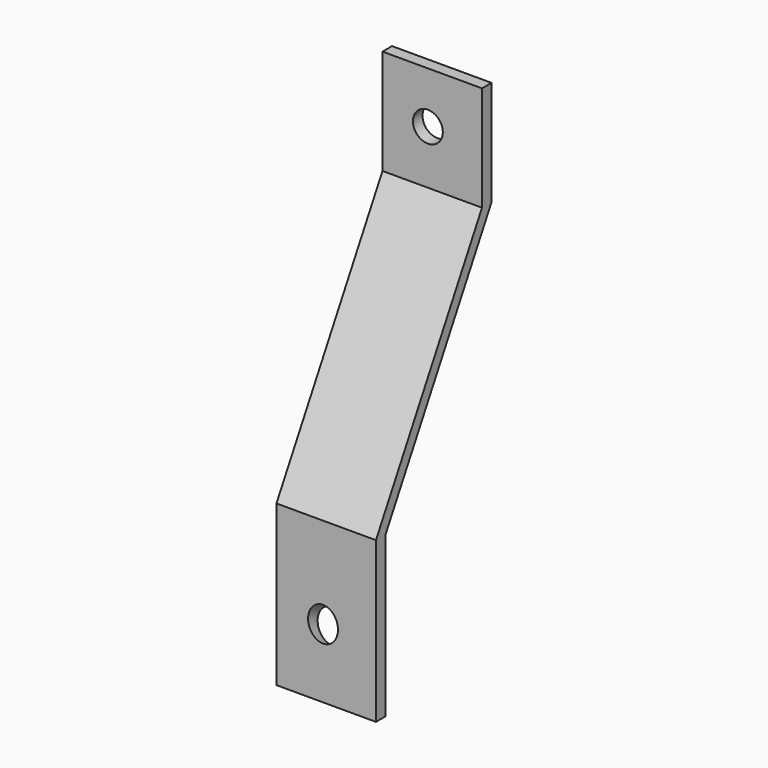
from build123d import *

# Parameters (mm, degrees)
F0_W     = 3.048003
F0_H     = 40.843204
F1_DEPTH = 25.4
F3_D     = 7.62
F5_D     = 7.62


with BuildPart() as f1:
    # F0 (on Right) → F1 (new body)
    with BuildSketch(Plane.YZ):
        Polygon((-15.24, 50.139602), (-49.072802, -10.8204), (-46.024799, -10.8204), (-12.192001, 50.139596), (-12.192001, 76.962002), (-15.24, 76.962002), align=None)
        with Locations((-47.5488, -31.242002)):
            Rectangle(F0_W, F0_H)
    extrude(amount=F1_DEPTH)

    # F3 (through all)
    with Locations(Plane(origin=(0, -32.925578, 18.273696), x_dir=(1, 0, 0), z_dir=(0, -0.874363, 0.485272))):
        with Locations((11.887199, -53.623594)):
            Hole(F3_D / 2)

    # F5 (through all)
    with Locations(Plane.XZ.offset(15.24)):
        with Locations((11.582401, 63.855603)):
            Hole(F5_D / 2)


solid = f1.part
